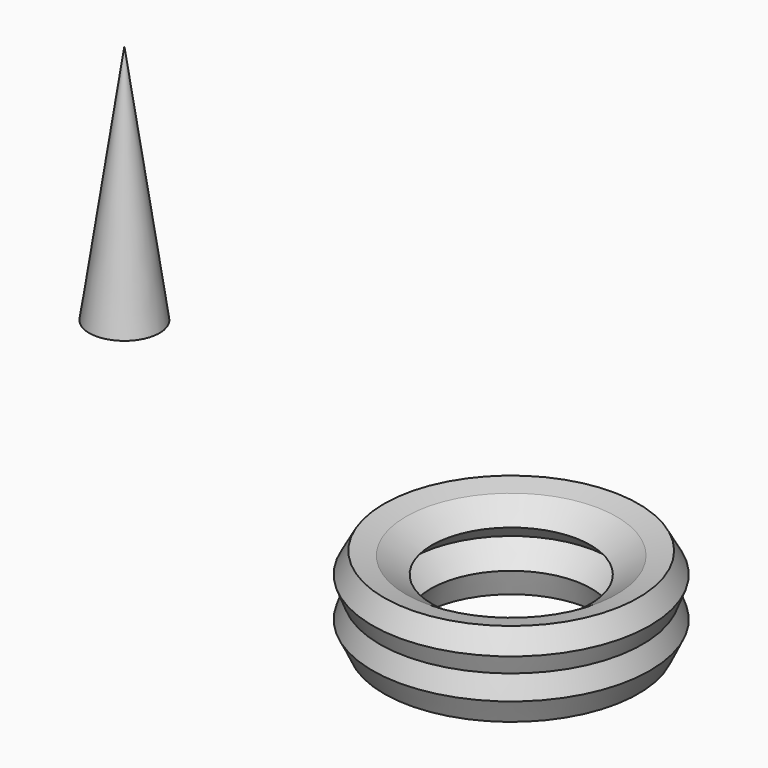
from build123d import *


with BuildPart() as f1:
    # F0 (on Front) → F1 (revolve)
    with BuildSketch(Plane.XZ):
        Polygon((-29.851224, 83.172549), (-40.963724, 6.972549), (-39.359432, 6.972549), (-29.851224, 72.171689), align=None)
    revolve(axis=Axis((-29.851224, 0, 77.672119), (0, 0, -1)))


with BuildPart() as f3:
    # F2 (on Front) → F3 (revolve)
    with BuildSketch(Plane.XZ):
        Polygon((59.07037, -18.747857), (52.158833, -17.431373), (48.535295, -24.019606), (50.841179, -29.949019), (48.535295, -36.537256), (52.158833, -44.113729), (64.347059, -44.113729), (66.982359, -36.207844), (61.052937, -29.619606), (67.275151, -24.019606), align=None)
    revolve(axis=Axis((92.347056, 0, -32.749018), (0, 0, -1)))


solid = Compound([f1.part, f3.part])
